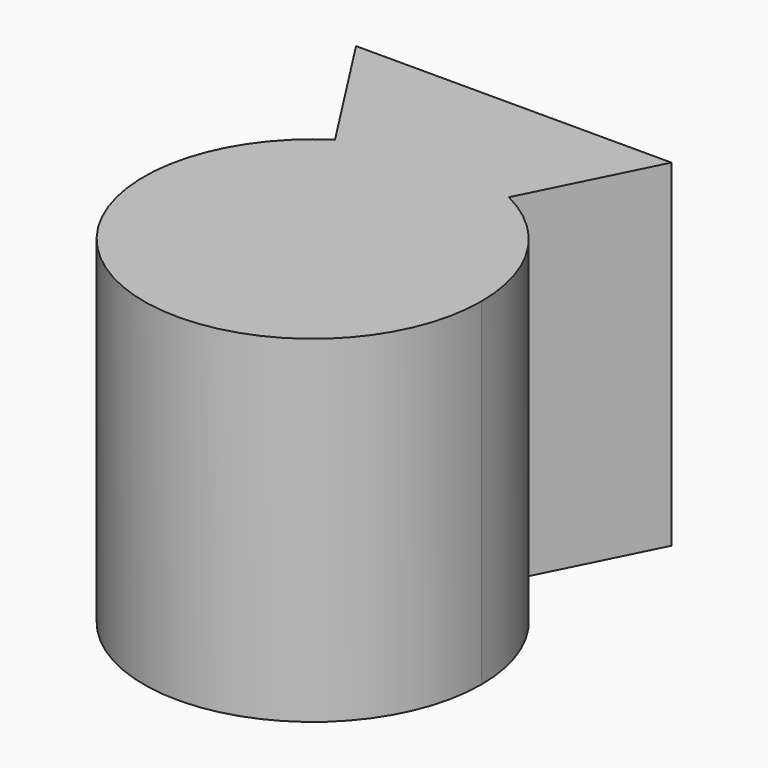
from build123d import *

# Parameters (mm, degrees)
F1_DEPTH = 20.32
F2_DEPTH = 25.4


with BuildPart() as f1:
    # F0 (on Top) → F1 (new body)
    with BuildSketch(Plane.XY):
        with BuildLine():
            ThreePointArc((-6.8711515938, 10.6884577154), (-6.0888165016, -11.152675292), (12.7065279506, 0))
            ThreePointArc((12.7065279506, 0), (10.8088183923, 6.6802168769), (5.6825324586, 11.3650638985))
            Line((5.6825324586, 11.3650638985), (0, 0))
            Line((0, 0), (-6.8711515938, 10.6884577154))
        make_face()
        with BuildLine():
            Line((0, 0), (5.6825324586, 11.3650638985))
            ThreePointArc((5.6825324586, 11.3650638985), (-0.6838514779, 12.6881125356), (-6.8711515938, 10.6884577154))
            Line((-6.8711515938, 10.6884577154), (0, 0))
        make_face()
    extrude(amount=F1_DEPTH)

    # F0 (on Top) → F2 (join)
    with BuildSketch(Plane.XY):
        with BuildLine():
            ThreePointArc((-6.8711515938, 10.6884577154), (-6.0888165016, -11.152675292), (12.7065279506, 0))
            ThreePointArc((12.7065279506, 0), (10.8088183923, 6.6802168769), (5.6825324586, 11.3650638985))
            Line((5.6825324586, 11.3650638985), (0, 0))
            Line((0, 0), (-6.8711515938, 10.6884577154))
        make_face()
        with BuildLine():
            Line((0, 0), (5.6825324586, 11.3650638985))
            ThreePointArc((5.6825324586, 11.3650638985), (-0.6838514779, 12.6881125356), (-6.8711515938, 10.6884577154))
            Line((-6.8711515938, 10.6884577154), (0, 0))
        make_face()
        with BuildLine():
            ThreePointArc((-6.8711515938, 10.6884577154), (-0.6838514779, 12.6881125356), (5.6825324586, 11.3650638985))
            Line((5.6825324586, 11.3650638985), (10.3891575709, 20.7783132792))
            Line((10.3891575709, 20.7783132792), (-13.3574875072, 20.7783132792))
            Line((-13.3574875072, 20.7783132792), (-6.8711515938, 10.6884577154))
        make_face()
    extrude(amount=F2_DEPTH)


solid = f1.part
